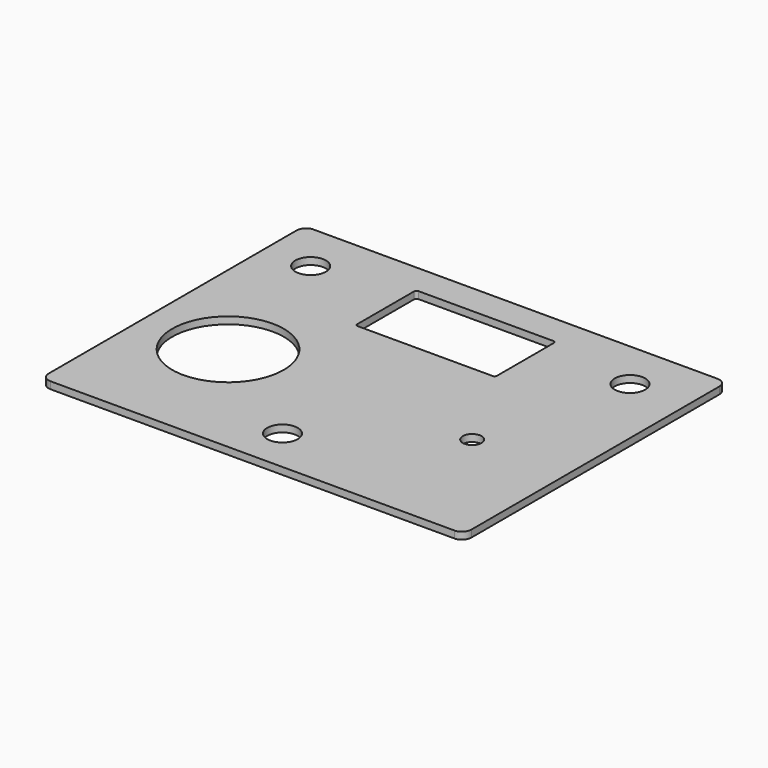
from build123d import *

# Parameters (mm, degrees)
SKETCH030_W     = 180
SKETCH030_H     = 140
PAD008_DEPTH    = 3
FILLET002_R     = 4
SKETCH031_R     = 6.5
SKETCH031_R_2   = 23.75
SKETCH031_R_3   = 4
POCKET006_DEPTH = 3.001


with BuildPart() as part:
    # Sketch030 (on XY_Plane010 of Origin021) → Pad008 (new body)
    with BuildSketch(Plane.XY):
        with Locations((2.306624, -28.831528)):
            Rectangle(SKETCH030_W, SKETCH030_H)
    extrude(amount=PAD008_DEPTH)

    # Fillet002
    fillet002_edges = [part.edges().sort_by_distance(p)[0] for p in [
        (-87.693376, 41.168472, 1.5),
        (92.306624, 41.168472, 1.5),
        (92.306624, -98.831528, 1.5),
        (-87.693376, -98.831528, 1.5),
    ]]
    fillet(fillet002_edges, radius=FILLET002_R)

    # Sketch031 (on Face5 of Fillet002) → Pocket006 (cut, through all)
    with BuildSketch(Plane.XY.offset(3)):
        with Locations((-68, 20)):
            Circle(SKETCH031_R)
        with Locations((-52, -44)):
            Circle(SKETCH031_R_2)
        with Locations((52, -44)):
            Circle(SKETCH031_R_3)
        with Locations((0, -80)):
            Circle(SKETCH031_R)
        with Locations((68, 20)):
            Circle(SKETCH031_R)
        with BuildLine():
            Line((-28.75, -4), (28.75, -4))
            ThreePointArc((28.75, -4), (29.457107, -3.707107), (29.75, -3))
            Line((29.75, -3), (29.75, 27.3))
            ThreePointArc((29.75, 27.3), (29.457107, 28.007107), (28.75, 28.3))
            Line((28.75, 28.3), (-28.75, 28.3))
            ThreePointArc((-28.75, 28.3), (-29.457107, 28.007107), (-29.75, 27.3))
            Line((-29.75, 27.3), (-29.75, -3))
            ThreePointArc((-29.75, -3), (-29.457107, -3.707107), (-28.75, -4))
        make_face()
    extrude(amount=-POCKET006_DEPTH, mode=Mode.SUBTRACT)


solid = part.part
